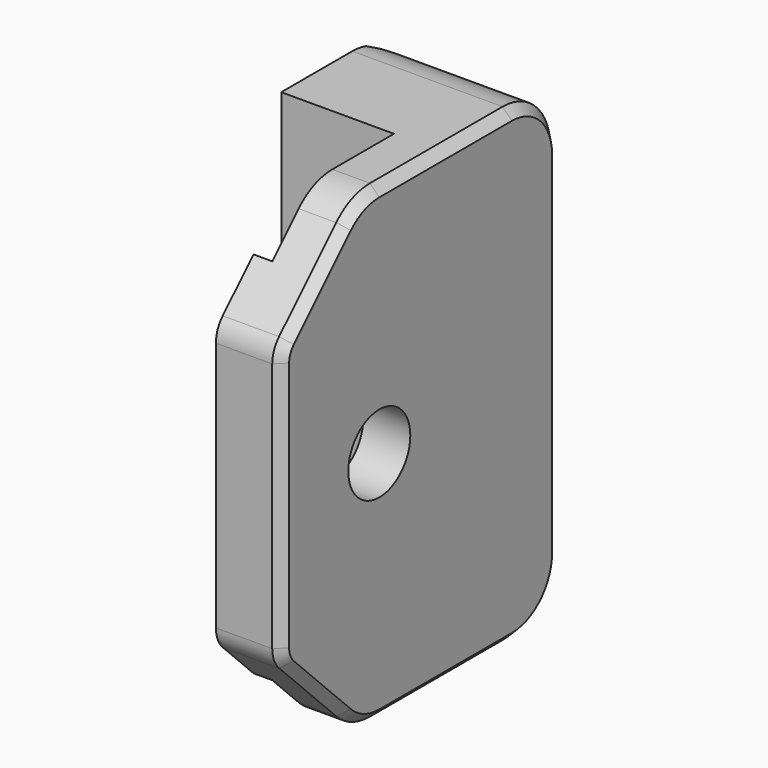
from build123d import *

# Parameters (mm, degrees)
SKETCH074_R     = 4.125
PAD028_DEPTH    = 25
PAD027_DEPTH    = 50
CHAMFER002_SIZE = 1


with BuildPart() as body028:
    # Sketch074 → Pad028 (new body, symmetric)
    with BuildSketch(Plane.YZ):
        with BuildLine():
            Line((12, 18.65), (12, -18.65))
            ThreePointArc((5.65, -25), (10.140128, -23.140128), (12, -18.65))
            Line((5.65, -25), (-12, -25))
            ThreePointArc((-16.490128, -23.140128), (-14.43004, -24.516635), (-12, -25))
            Line((-16.490128, -23.140128), (-24.092031, -15.538225))
            ThreePointArc((-25, -13.346194), (-24.764027, -14.532513), (-24.092031, -15.538225))
            Line((-25, 13.346194), (-25, -13.346194))
            ThreePointArc((-24.092031, 15.538225), (-24.764027, 14.532513), (-25, 13.346194))
            Line((-24.092031, 15.538225), (-16.490128, 23.140128))
            ThreePointArc((-12, 25), (-14.43004, 24.516635), (-16.490128, 23.140128))
            Line((-12, 25), (5.65, 25))
            ThreePointArc((12, 18.65), (10.140128, 23.140128), (5.65, 25))
        make_face()
        with Locations((-12, 0)):
            Circle(SKETCH074_R, mode=Mode.SUBTRACT)
    extrude(amount=PAD028_DEPTH, both=True)


with BuildPart() as body:
    # Sketch073 → Pad027 (new body, symmetric)
    with BuildSketch(Plane.XY):
        Polygon((7, 12), (-5.514719, 12), (-10, 7.514719), (-10, -3.8), (2, -3.8), (2, -20), (0, -20), (0, -40), (7, -40), align=None)
    extrude(amount=PAD027_DEPTH, both=True)

    # Boolean002: intersect Body028
    add(body028.part, mode=Mode.INTERSECT)

    # Chamfer002
    chamfer002_edges = [body.edges().sort_by_distance(p)[0] for p in [
        (7, -3.175, 25),
    ]]
    chamfer(chamfer002_edges, length=CHAMFER002_SIZE)


solid = body.part
